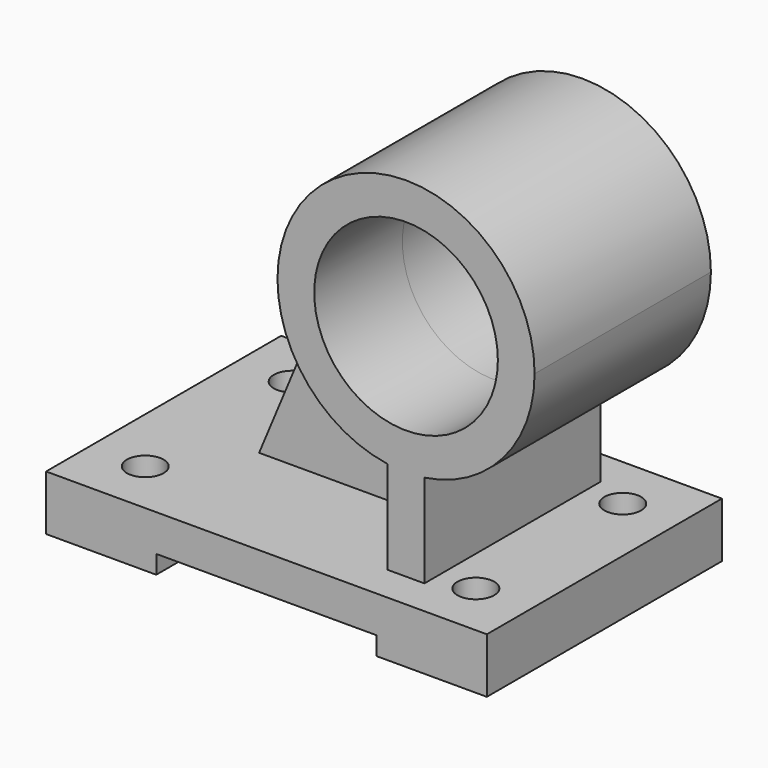
from build123d import *

# Parameters (mm, degrees)
F1_DEPTH      = 40
F1_DEPTH_BACK = 40
F2_DEPTH      = 5
F2_DEPTH_BACK = 5
F0_R          = 25
F3_DEPTH      = 30
F3_DEPTH_BACK = 30
F4_R          = 5
F5_DEPTH      = 25


with BuildPart() as f1:
    # F0 (on Front) → F1 (new body, two sides)
    with BuildSketch(Plane.XZ) as f1_sk:
        Polygon((-18.003343, -13.36493), (-48.003343, -13.36493), (-48.003343, -28.36493), (-18.003343, -28.36493), (-18.003343, -23.36493), (41.996657, -23.36493), (41.996657, -28.36493), (71.996657, -28.36493), (71.996657, -13.36493), (46.996657, -13.36493), (41.996657, -13.36493), (36.996657, -13.36493), align=None)
    extrude(amount=F1_DEPTH)
    extrude(f1_sk.sketch, amount=-F1_DEPTH_BACK)

    # F0 (on Front) → F2 (join, two sides)
    with BuildSketch(Plane.XZ) as f2_sk:
        with BuildLine():
            Line((6.996657, 46.63507), (-18.003343, -13.36493))
            Line((-18.003343, -13.36493), (36.996657, -13.36493))
            Line((36.996657, -13.36493), (36.996657, 11.994054))
            ThreePointArc((36.996657, 11.994054), (15.539144, 23.722191), (6.996657, 46.63507))
        make_face()
    extrude(amount=F2_DEPTH)
    extrude(f2_sk.sketch, amount=-F2_DEPTH_BACK)

    # F0 (on Front) → F3 (join, two sides)
    with BuildSketch(Plane.XZ) as f3_sk:
        with BuildLine():
            ThreePointArc((76.996657, 46.63507), (41.996657, 81.63507), (6.996657, 46.63507))
            ThreePointArc((6.996657, 46.63507), (15.539144, 23.722191), (36.996657, 11.994054))
            ThreePointArc((36.996657, 11.994054), (41.996657, 11.63507), (46.996657, 11.994054))
            ThreePointArc((46.996657, 11.994054), (68.45417, 23.722191), (76.996657, 46.63507))
        make_face()
        with Locations((41.996657, 46.63507)):
            Circle(F0_R, mode=Mode.SUBTRACT)
        with BuildLine():
            Line((36.996657, 11.994054), (36.996657, -13.36493))
            Line((36.996657, -13.36493), (41.996657, -13.36493))
            Line((41.996657, -13.36493), (46.996657, -13.36493))
            Line((46.996657, -13.36493), (46.996657, 11.994054))
            ThreePointArc((46.996657, 11.994054), (41.996657, 11.63507), (36.996657, 11.994054))
        make_face()
    extrude(amount=F3_DEPTH)
    extrude(f3_sk.sketch, amount=-F3_DEPTH_BACK)

    # F4 (on face) → F5 (cut)
    with BuildSketch(Plane.XY.offset(-13.36493)):
        with BuildLine():
            ThreePointArc((-33.003343, -30), (-29.467809, -28.535534), (-28.003343, -25))
            ThreePointArc((-28.003343, -25), (-36.538877, -21.464466), (-33.003343, -30))
        make_face()
        with BuildLine():
            ThreePointArc((-33.003343, 30), (-36.538877, 21.464466), (-28.003343, 25))
            ThreePointArc((-28.003343, 25), (-29.467809, 28.535534), (-33.003343, 30))
        make_face()
        with Locations((33.003343, 25)):
            Circle(F4_R)
        with Locations((56.996657, -25)):
            Circle(F4_R)
        with Locations((56.996657, 25)):
            Circle(F4_R)
    extrude(amount=-F5_DEPTH, mode=Mode.SUBTRACT)


solid = f1.part
